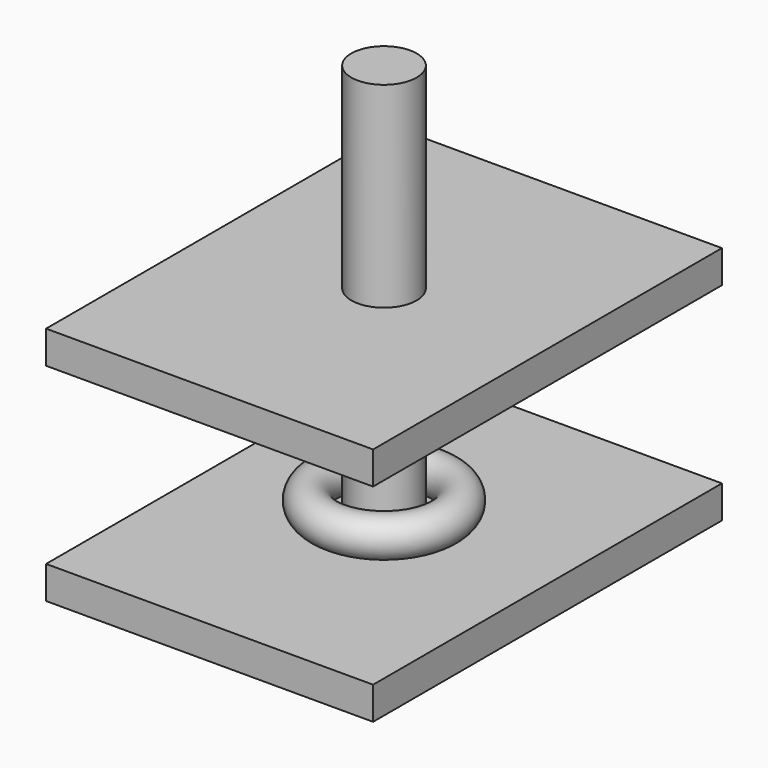
from build123d import *

# Parameters (mm, degrees)
F0_R     = 1.5
F1_DEPTH = 25
F3_W     = 15
F3_H     = 20
F4_DEPTH = 1.5
F6_W     = 15
F6_H     = 20
F7_DEPTH = 1.5
F8_R     = 0.875


with BuildPart() as f1:
    # F0 (on Top) → F1 (new body)
    with BuildSketch(Plane.XY):
        Circle(F0_R)
    extrude(amount=F1_DEPTH)


with BuildPart() as f4:
    # F3 (on offset) → F4 (new body)
    with BuildSketch(Plane.XY.offset(5)):
        Rectangle(F3_W, F3_H)
    extrude(amount=F4_DEPTH)


with BuildPart() as f7:
    # F6 (on offset) → F7 (new body)
    with BuildSketch(Plane.XY.offset(14.5)):
        Rectangle(F6_W, F6_H)
    extrude(amount=F7_DEPTH)


with BuildPart() as f9:
    # F8 (on Front) → F9 (revolve)
    with BuildSketch(Plane.XZ):
        with Locations((-2.752687, 7.454792)):
            Circle(F8_R)
    revolve(axis=Axis((0, 0, 11.805554), (0, 0, 1)))


solid = Compound([f1.part, f4.part, f7.part, f9.part])
